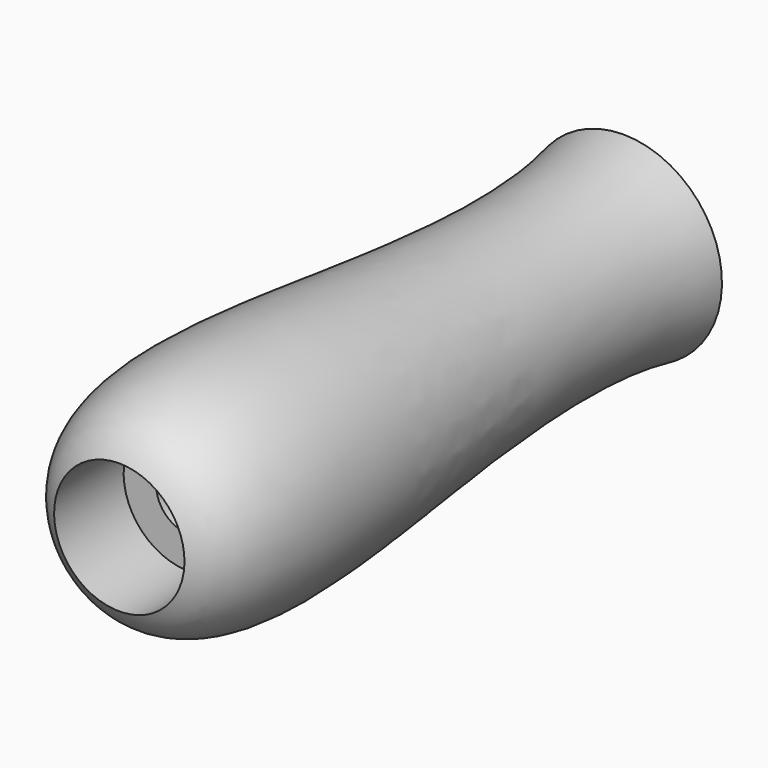
from build123d import *


with BuildPart() as f1:
    # F0 (on Right) → F1 (revolve)
    with BuildSketch(Plane.YZ):
        with BuildLine():
            Line((-50, 3), (0, 3))
            Line((0, 3), (0, 9.078763))
            add(Edge.make_bspline(
                [(0, 9.078763), (-20.27183, 4.859294), (-52.594007, 16.808621), (-58, 6)],
                knots=[0, 0, 0, 0, 58.081656, 58.081656, 58.081656, 58.081656], degree=3))
            Line((-58, 6), (-50, 6))
            Line((-50, 6), (-50, 3))
        make_face()
    revolve(axis=Axis((0, -18.322619, 0), (0, 1, 0)))


solid = f1.part
